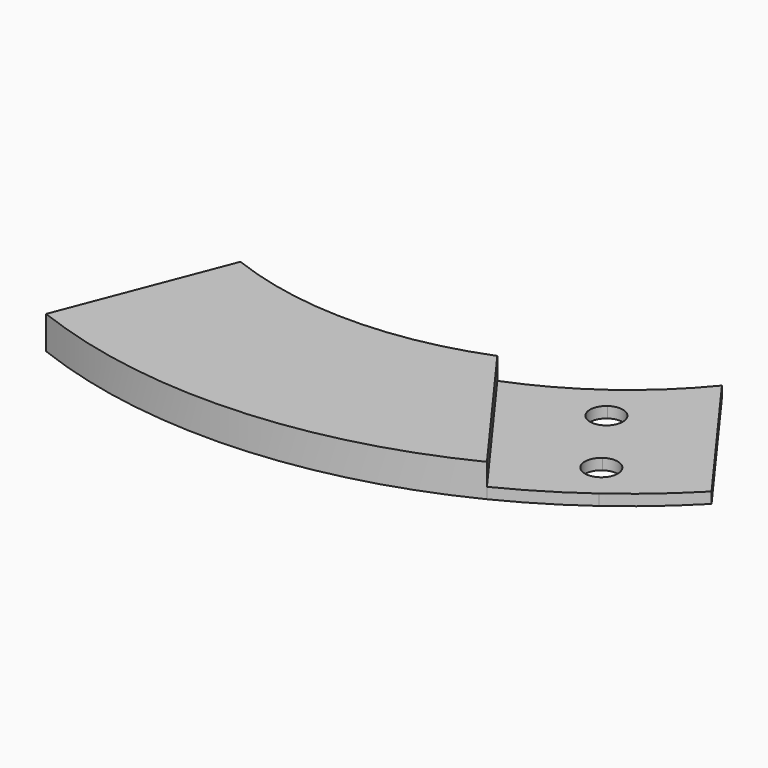
from build123d import *

# Parameters (mm, degrees)
F1_DEPTH = 9.525
F2_DEPTH = 6.35


with BuildPart() as f1:
    # F0 (on Top) → F1 (new body)
    with BuildSketch(Plane.XY):
        with BuildLine():
            Line((109.0079811876, -106.5036151378), (78.4525489868, -64.5581718877))
            ThreePointArc((78.4525489868, -64.5581718877), (69.69265157, -73.9289815778), (59.8218109514, -82.1213183923))
            Line((59.8218109514, -82.1213183923), (64.495389932, -88.5370463917))
            ThreePointArc((64.495389932, -88.5370463917), (69.459011135, -88.1417123974), (72.0620373203, -92.3864831914))
            ThreePointArc((72.0620373203, -92.3864831914), (71.5443081143, -94.5459570061), (70.1036847087, -96.235919991))
            Line((70.1036847087, -96.235919991), (79.4508426698, -109.0673759898))
            ThreePointArc((79.4508426698, -109.0673759898), (84.4144638729, -108.6720419955), (87.0174900582, -112.9168127895))
            ThreePointArc((87.0174900582, -112.9168127895), (86.4997608522, -115.0762866042), (85.0591374465, -116.7662495891))
            Line((85.0591374465, -116.7662495891), (89.7327164271, -123.1819775885))
            ThreePointArc((89.7327164271, -123.1819775885), (99.7196478413, -115.2464829589), (109.0079811876, -106.5036151378))
        make_face()
        with BuildLine():
            ThreePointArc((59.8218109514, -82.1213183923), (48.9973735962, -89.0045919078), (37.3918882403, -94.469077977))
            Line((37.3918882403, -94.469077977), (67.9473205258, -136.4145213434))
            ThreePointArc((67.9473205258, -136.4145213434), (79.1171509025, -130.254506383), (89.7327164271, -123.1819775885))
            Line((89.7327164271, -123.1819775885), (85.0591374465, -116.7662495891))
            ThreePointArc((85.0591374465, -116.7662495891), (78.4055532585, -115.7209601778), (79.4508426698, -109.0673759898))
            Line((79.4508426698, -109.0673759898), (70.1036847087, -96.235919991))
            ThreePointArc((70.1036847087, -96.235919991), (63.4501005207, -95.1906305797), (64.495389932, -88.5370463917))
            Line((64.495389932, -88.5370463917), (59.8218109514, -82.1213183923))
        make_face()
        with BuildLine():
            Line((67.9473205258, -136.4145213434), (37.3918882403, -94.469077977))
            ThreePointArc((37.3918882403, -94.469077977), (0.3678617573, -101.5993340418), (-36.7068265087, -94.7373679582))
            Line((-36.7068265087, -94.7373679582), (-55.0602397631, -142.1060519374))
            ThreePointArc((-55.0602397631, -142.1060519374), (7.0439756368, -152.2371255878), (67.9473205258, -136.4145213434))
        make_face()
    extrude(amount=-F1_DEPTH)

    # F0 (on Top) → F2 (cut)
    with BuildSketch(Plane.XY):
        with BuildLine():
            ThreePointArc((59.8218109514, -82.1213183923), (48.9973735962, -89.0045919078), (37.3918882403, -94.469077977))
            Line((37.3918882403, -94.469077977), (67.9473205258, -136.4145213434))
            ThreePointArc((67.9473205258, -136.4145213434), (79.1171509025, -130.254506383), (89.7327164271, -123.1819775885))
            Line((89.7327164271, -123.1819775885), (85.0591374465, -116.7662495891))
            ThreePointArc((85.0591374465, -116.7662495891), (78.4055532585, -115.7209601778), (79.4508426698, -109.0673759898))
            Line((79.4508426698, -109.0673759898), (70.1036847087, -96.235919991))
            ThreePointArc((70.1036847087, -96.235919991), (63.4501005207, -95.1906305797), (64.495389932, -88.5370463917))
            Line((64.495389932, -88.5370463917), (59.8218109514, -82.1213183923))
        make_face()
        with BuildLine():
            Line((109.0079811876, -106.5036151378), (78.4525489868, -64.5581718877))
            ThreePointArc((78.4525489868, -64.5581718877), (69.69265157, -73.9289815778), (59.8218109514, -82.1213183923))
            Line((59.8218109514, -82.1213183923), (64.495389932, -88.5370463917))
            ThreePointArc((64.495389932, -88.5370463917), (69.459011135, -88.1417123974), (72.0620373203, -92.3864831914))
            ThreePointArc((72.0620373203, -92.3864831914), (71.5443081143, -94.5459570061), (70.1036847087, -96.235919991))
            Line((70.1036847087, -96.235919991), (79.4508426698, -109.0673759898))
            ThreePointArc((79.4508426698, -109.0673759898), (84.4144638729, -108.6720419955), (87.0174900582, -112.9168127895))
            ThreePointArc((87.0174900582, -112.9168127895), (86.4997608522, -115.0762866042), (85.0591374465, -116.7662495891))
            Line((85.0591374465, -116.7662495891), (89.7327164271, -123.1819775885))
            ThreePointArc((89.7327164271, -123.1819775885), (99.7196478413, -115.2464829589), (109.0079811876, -106.5036151378))
        make_face()
    extrude(amount=-F2_DEPTH, mode=Mode.SUBTRACT)


solid = f1.part
